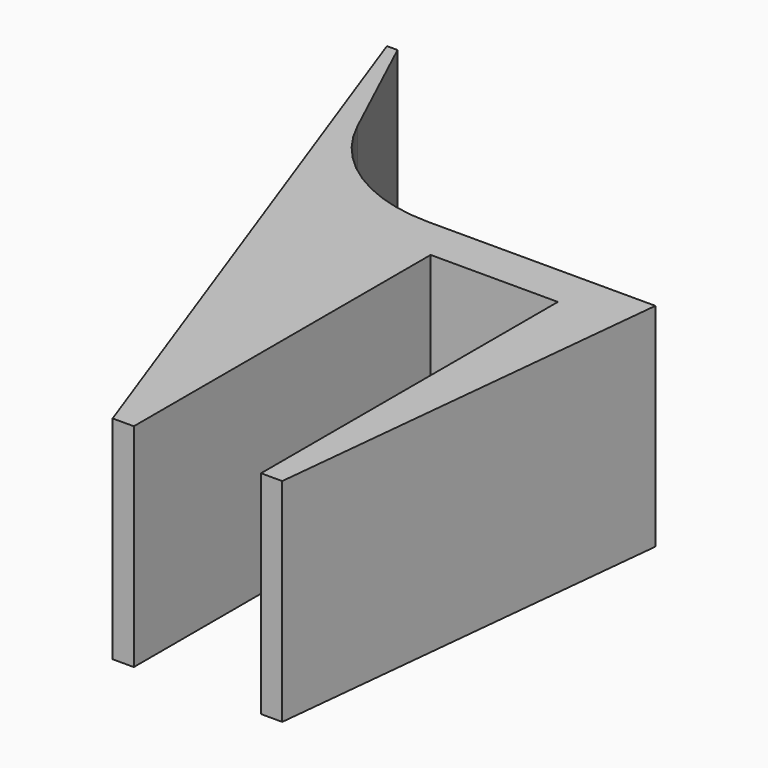
from build123d import *

# Parameters (mm, degrees)
PAD_DEPTH = 20


with BuildPart() as part:
    # Sketch → Pad (new body)
    with BuildSketch(Plane.XY):
        with BuildLine():
            Line((0, 0), (0, -35))
            Line((0, -35), (2, -35))
            Line((2, -35), (6, 4))
            Line((6, 4), (-15.443946, 4))
            ThreePointArc((-29.038563, 12.660726), (-23.50344, 6.349128), (-15.443946, 4))
            Line((-29.038563, 12.660726), (-34.326153, 24))
            Line((-34.326153, 24), (-35.326153, 24))
            Line((-14, -35), (-35.326153, 24))
            Line((-14, -35), (-12, -35))
            Line((-12, -35), (-12, 0))
            Line((-12, 0), (0, 0))
        make_face()
    extrude(amount=PAD_DEPTH)


solid = part.part
